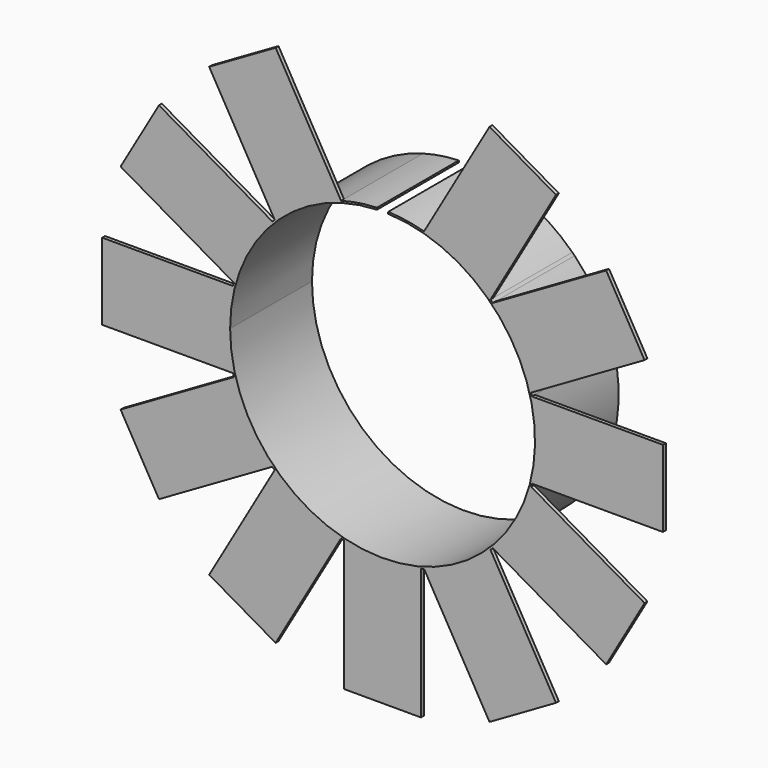
from build123d import *

# Parameters (mm, degrees)
F1_DEPTH = 50.8
F2_DEPTH = 1.778


with BuildPart() as f1:
    # F0 (on Front) → F1 (new body)
    with BuildSketch(Plane.XZ):
        with BuildLine():
            ThreePointArc((-75.692, 0), (-54.489303, 52.537555), (-2.759729, 75.641673))
            Line((-2.759729, 75.641673), (-2.792142, 76.530082))
            ThreePointArc((-2.792142, 76.530082), (-11.7723, 75.670751), (-20.589097, 73.761363))
            ThreePointArc((-20.589097, 73.761363), (-38.2905, 66.321091), (-53.584665, 54.711363))
            ThreePointArc((-53.584665, 54.711363), (-54.150944, 54.150944), (-54.711363, 53.584665))
            ThreePointArc((-54.711363, 53.584665), (-66.321091, 38.2905), (-73.761363, 20.589097))
            ThreePointArc((-73.761363, 20.589097), (-73.971566, 19.820621), (-74.173763, 19.05))
            ThreePointArc((-74.173763, 19.05), (-75.976807, 9.600746), (-76.581, 0))
            Line((-76.581, 0), (-75.692, 0))
        make_face()
        with BuildLine():
            ThreePointArc((2.759729, 75.641673), (52.537555, -54.489303), (-75.692, 0))
            Line((-75.692, 0), (-76.581, 0))
            ThreePointArc((-76.581, 0), (-75.976807, -9.600746), (-74.173763, -19.05))
            ThreePointArc((-74.173763, -19.05), (-73.971566, -19.820621), (-73.761363, -20.589097))
            ThreePointArc((-73.761363, -20.589097), (-66.321091, -38.2905), (-54.711363, -53.584665))
            ThreePointArc((-54.711363, -53.584665), (-54.150944, -54.150944), (-53.584665, -54.711363))
            ThreePointArc((-53.584665, -54.711363), (-38.2905, -66.321091), (-20.589097, -73.761363))
            ThreePointArc((-20.589097, -73.761363), (-19.820621, -73.971566), (-19.05, -74.173763))
            ThreePointArc((-19.05, -74.173763), (0, -76.581), (19.05, -74.173763))
            ThreePointArc((19.05, -74.173763), (19.820621, -73.971566), (20.589097, -73.761363))
            ThreePointArc((20.589097, -73.761363), (38.2905, -66.321091), (53.584665, -54.711363))
            ThreePointArc((53.584665, -54.711363), (54.150944, -54.150944), (54.711363, -53.584665))
            ThreePointArc((54.711363, -53.584665), (66.321091, -38.2905), (73.761363, -20.589097))
            ThreePointArc((73.761363, -20.589097), (73.971566, -19.820621), (74.173763, -19.05))
            ThreePointArc((74.173763, -19.05), (76.581, 0), (74.173763, 19.05))
            ThreePointArc((74.173763, 19.05), (73.971566, 19.820621), (73.761363, 20.589097))
            ThreePointArc((73.761363, 20.589097), (66.321091, 38.2905), (54.711363, 53.584665))
            ThreePointArc((54.711363, 53.584665), (54.150944, 54.150944), (53.584665, 54.711363))
            ThreePointArc((53.584665, 54.711363), (38.2905, 66.321091), (20.589097, 73.761363))
            ThreePointArc((20.589097, 73.761363), (11.7723, 75.670751), (2.792142, 76.530082))
            Line((2.792142, 76.530082), (2.759729, 75.641673))
        make_face()
    extrude(amount=-F1_DEPTH)

    # F0 (on Front) → F2 (join)
    with BuildSketch(Plane.XZ):
        with BuildLine():
            ThreePointArc((-75.692, 0), (-54.489303, 52.537555), (-2.759729, 75.641673))
            Line((-2.759729, 75.641673), (-2.792142, 76.530082))
            ThreePointArc((-2.792142, 76.530082), (-11.7723, 75.670751), (-20.589097, 73.761363))
            ThreePointArc((-20.589097, 73.761363), (-38.2905, 66.321091), (-53.584665, 54.711363))
            ThreePointArc((-53.584665, 54.711363), (-54.150944, 54.150944), (-54.711363, 53.584665))
            ThreePointArc((-54.711363, 53.584665), (-66.321091, 38.2905), (-73.761363, 20.589097))
            ThreePointArc((-73.761363, 20.589097), (-73.971566, 19.820621), (-74.173763, 19.05))
            ThreePointArc((-74.173763, 19.05), (-75.976807, 9.600746), (-76.581, 0))
            Line((-76.581, 0), (-75.692, 0))
        make_face()
        with BuildLine():
            ThreePointArc((2.759729, 75.641673), (52.537555, -54.489303), (-75.692, 0))
            Line((-75.692, 0), (-76.581, 0))
            ThreePointArc((-76.581, 0), (-75.976807, -9.600746), (-74.173763, -19.05))
            ThreePointArc((-74.173763, -19.05), (-73.971566, -19.820621), (-73.761363, -20.589097))
            ThreePointArc((-73.761363, -20.589097), (-66.321091, -38.2905), (-54.711363, -53.584665))
            ThreePointArc((-54.711363, -53.584665), (-54.150944, -54.150944), (-53.584665, -54.711363))
            ThreePointArc((-53.584665, -54.711363), (-38.2905, -66.321091), (-20.589097, -73.761363))
            ThreePointArc((-20.589097, -73.761363), (-19.820621, -73.971566), (-19.05, -74.173763))
            ThreePointArc((-19.05, -74.173763), (0, -76.581), (19.05, -74.173763))
            ThreePointArc((19.05, -74.173763), (19.820621, -73.971566), (20.589097, -73.761363))
            ThreePointArc((20.589097, -73.761363), (38.2905, -66.321091), (53.584665, -54.711363))
            ThreePointArc((53.584665, -54.711363), (54.150944, -54.150944), (54.711363, -53.584665))
            ThreePointArc((54.711363, -53.584665), (66.321091, -38.2905), (73.761363, -20.589097))
            ThreePointArc((73.761363, -20.589097), (73.971566, -19.820621), (74.173763, -19.05))
            ThreePointArc((74.173763, -19.05), (76.581, 0), (74.173763, 19.05))
            ThreePointArc((74.173763, 19.05), (73.971566, 19.820621), (73.761363, 20.589097))
            ThreePointArc((73.761363, 20.589097), (66.321091, 38.2905), (54.711363, 53.584665))
            ThreePointArc((54.711363, 53.584665), (54.150944, 54.150944), (53.584665, 54.711363))
            ThreePointArc((53.584665, 54.711363), (38.2905, 66.321091), (20.589097, 73.761363))
            ThreePointArc((20.589097, 73.761363), (11.7723, 75.670751), (2.792142, 76.530082))
            Line((2.792142, 76.530082), (2.759729, 75.641673))
        make_face()
        with BuildLine():
            Line((-139.192, 0), (-76.581, 0))
            ThreePointArc((-76.581, 0), (-75.976807, 9.600746), (-74.173763, 19.05))
            Line((-74.173763, 19.05), (-139.192, 19.05))
            Line((-139.192, 19.05), (-139.192, 0))
        make_face()
        with BuildLine():
            ThreePointArc((-74.173763, -19.05), (-75.976807, -9.600746), (-76.581, 0))
            Line((-76.581, 0), (-139.192, 0))
            Line((-139.192, 0), (-139.192, -19.05))
            Line((-139.192, -19.05), (-74.173763, -19.05))
        make_face()
        with BuildLine():
            ThreePointArc((-53.584665, 54.711363), (-38.2905, 66.321091), (-20.589097, 73.761363))
            Line((-20.589097, 73.761363), (-53.098216, 130.068808))
            Line((-53.098216, 130.068808), (-69.596, 120.543808))
            Line((-69.596, 120.543808), (-86.093784, 111.018808))
            Line((-86.093784, 111.018808), (-53.584665, 54.711363))
        make_face()
        with BuildLine():
            Line((53.098216, 130.068808), (20.589097, 73.761363))
            ThreePointArc((20.589097, 73.761363), (38.2905, 66.321091), (53.584665, 54.711363))
            Line((53.584665, 54.711363), (86.093784, 111.018808))
            Line((86.093784, 111.018808), (69.596, 120.543808))
            Line((69.596, 120.543808), (53.098216, 130.068808))
        make_face()
        with BuildLine():
            Line((-130.068808, 53.098216), (-73.761363, 20.589097))
            ThreePointArc((-73.761363, 20.589097), (-66.321091, 38.2905), (-54.711363, 53.584665))
            Line((-54.711363, 53.584665), (-111.018808, 86.093784))
            Line((-111.018808, 86.093784), (-120.543808, 69.596))
            Line((-120.543808, 69.596), (-130.068808, 53.098216))
        make_face()
        with BuildLine():
            ThreePointArc((-54.711363, -53.584665), (-66.321091, -38.2905), (-73.761363, -20.589097))
            Line((-73.761363, -20.589097), (-130.068808, -53.098216))
            Line((-130.068808, -53.098216), (-120.543808, -69.596))
            Line((-120.543808, -69.596), (-111.018808, -86.093784))
            Line((-111.018808, -86.093784), (-54.711363, -53.584665))
        make_face()
        with BuildLine():
            Line((111.018808, 86.093784), (54.711363, 53.584665))
            ThreePointArc((54.711363, 53.584665), (66.321091, 38.2905), (73.761363, 20.589097))
            Line((73.761363, 20.589097), (130.068808, 53.098216))
            Line((130.068808, 53.098216), (120.543808, 69.596))
            Line((120.543808, 69.596), (111.018808, 86.093784))
        make_face()
        with BuildLine():
            ThreePointArc((-20.589097, -73.761363), (-38.2905, -66.321091), (-53.584665, -54.711363))
            Line((-53.584665, -54.711363), (-86.093784, -111.018808))
            Line((-86.093784, -111.018808), (-69.596, -120.543808))
            Line((-69.596, -120.543808), (-53.098216, -130.068808))
            Line((-53.098216, -130.068808), (-20.589097, -73.761363))
        make_face()
        with BuildLine():
            Line((139.192, 19.05), (74.173763, 19.05))
            ThreePointArc((74.173763, 19.05), (76.581, 0), (74.173763, -19.05))
            Line((74.173763, -19.05), (139.192, -19.05))
            Line((139.192, -19.05), (139.192, 0))
            Line((139.192, 0), (139.192, 19.05))
        make_face()
        with BuildLine():
            ThreePointArc((19.05, -74.173763), (0, -76.581), (-19.05, -74.173763))
            Line((-19.05, -74.173763), (-19.05, -139.192))
            Line((-19.05, -139.192), (0, -139.192))
            Line((0, -139.192), (19.05, -139.192))
            Line((19.05, -139.192), (19.05, -74.173763))
        make_face()
        with BuildLine():
            Line((130.068808, -53.098216), (73.761363, -20.589097))
            ThreePointArc((73.761363, -20.589097), (66.321091, -38.2905), (54.711363, -53.584665))
            Line((54.711363, -53.584665), (111.018808, -86.093784))
            Line((111.018808, -86.093784), (120.543808, -69.596))
            Line((120.543808, -69.596), (130.068808, -53.098216))
        make_face()
        with BuildLine():
            ThreePointArc((53.584665, -54.711363), (38.2905, -66.321091), (20.589097, -73.761363))
            Line((20.589097, -73.761363), (53.098216, -130.068808))
            Line((53.098216, -130.068808), (69.596, -120.543808))
            Line((69.596, -120.543808), (86.093784, -111.018808))
            Line((86.093784, -111.018808), (53.584665, -54.711363))
        make_face()
    extrude(amount=-F2_DEPTH)


solid = f1.part
